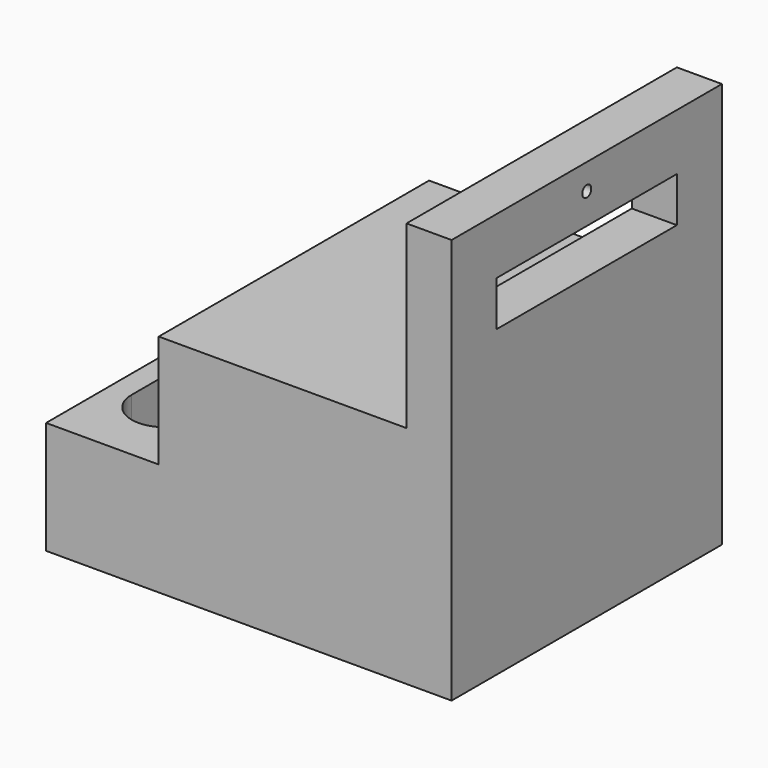
from build123d import *

# Parameters (mm, degrees)
F1_DEPTH = 150
F2_R     = 2.5
F3_DEPTH = 20.001
F4_W     = 100
F4_H     = 20
F5_DEPTH = 20.001
F7_DEPTH = 25


with BuildPart() as f1:
    # F0 (on Front) → F1 (new body)
    with BuildSketch(Plane.XZ):
        Polygon((90, -90), (90, 90), (70, 90), (70, 10), (-40, 10), (-40, -40), (-90, -40), (-90, -90), align=None)
        Polygon((90, -90), (90, 90), (70, 90), (70, 10), (-40, 10), (-40, -40), (-90, -40), (-90, -90), align=None)
    extrude(amount=-F1_DEPTH)

    # F2 (on face) → F3 (cut, through all)
    with BuildSketch(Plane(origin=(70, 0, 0), x_dir=(0, -1, 0), z_dir=(-1, 0, 0))):
        with Locations((-75, 78.577638)):
            Circle(F2_R)
    extrude(amount=-F3_DEPTH, mode=Mode.SUBTRACT)

    # F4 (on face) → F5 (cut, through all)
    with BuildSketch(Plane(origin=(70, 0, 0), x_dir=(0, -1, 0), z_dir=(-1, 0, 0))):
        with Locations((-75, 55)):
            Rectangle(F4_W, F4_H)
    extrude(amount=-F5_DEPTH, mode=Mode.SUBTRACT)

    # F6 (on face) → F7 (cut)
    with BuildSketch(Plane.XY.offset(-40)):
        with BuildLine():
            Line((-50, 35), (-50, 115))
            ThreePointArc((-50, 115), (-65, 130), (-80, 115))
            Line((-80, 115), (-80, 35))
            ThreePointArc((-80, 35), (-65, 20), (-50, 35))
        make_face()
    extrude(amount=-F7_DEPTH, mode=Mode.SUBTRACT)


solid = f1.part
